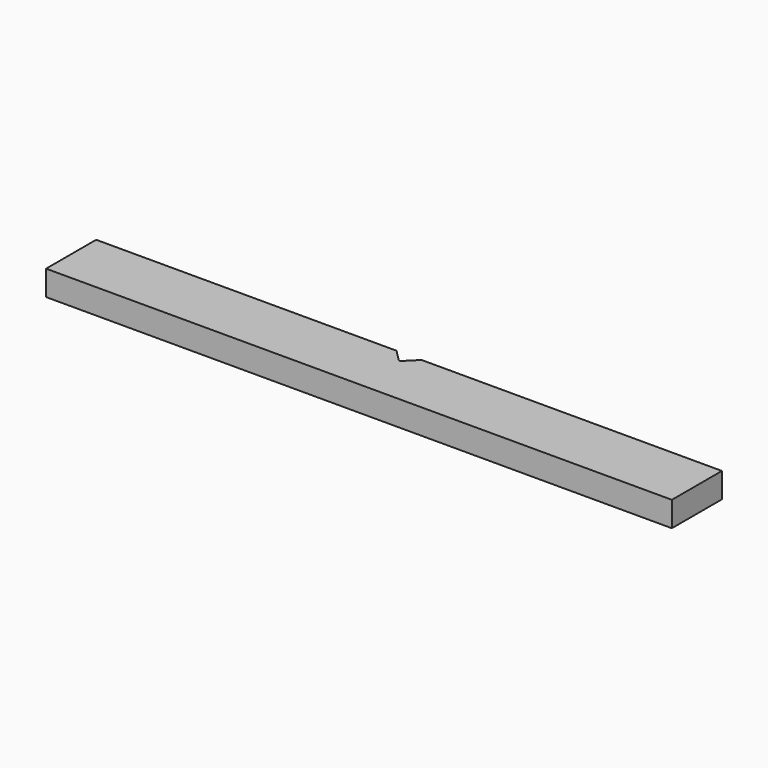
from build123d import *

# Parameters (mm, degrees)
F1_DEPTH = 4


with BuildPart() as f1:
    # F0 (on Top) → F1 (new body)
    with BuildSketch(Plane.XY):
        with BuildLine():
            Line((0, 10), (0, 0))
            Line((0, 0), (100, 0))
            Line((100, 0), (100, 10))
            Line((100, 10), (52, 10))
            Line((52, 10), (50.176777, 8.176777))
            ThreePointArc((50.176777, 8.176777), (50, 8.103553), (49.823223, 8.176777))
            Line((49.823223, 8.176777), (48, 10))
            Line((48, 10), (0, 10))
        make_face()
    extrude(amount=F1_DEPTH)


solid = f1.part
